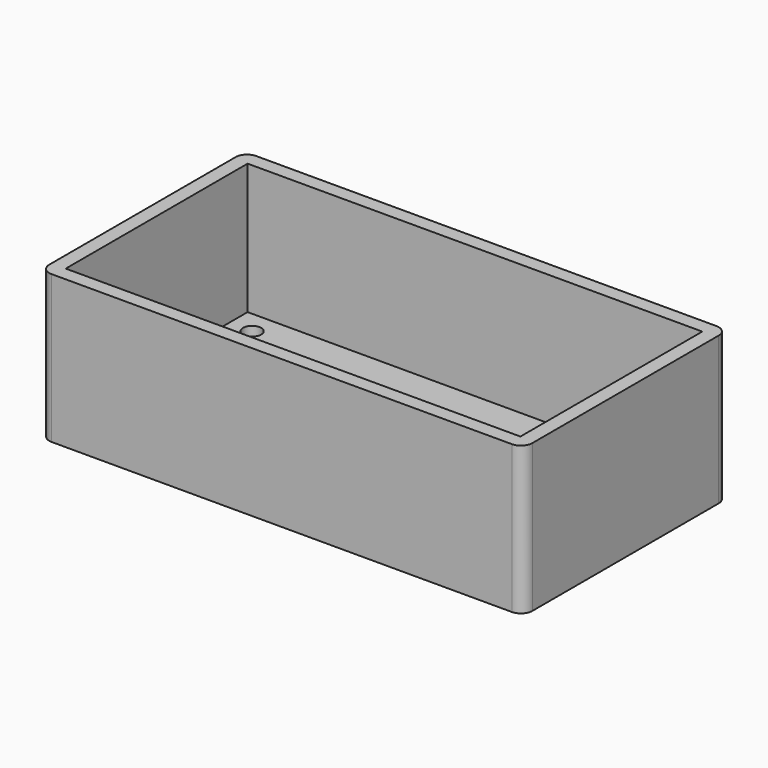
from build123d import *

# Parameters (mm, degrees)
F0_W     = 85
F0_H     = 45
F0_W_2   = 80
F0_H_2   = 40
F1_DEPTH = 3
F2_DEPTH = 26
F3_R     = 2
F4_R     = 5.75
F5_DEPTH = 3
F6_R     = 1.6
F7_DEPTH = 25


with BuildPart() as f1:
    # F0 (on Top) → F1 (new body)
    with BuildSketch(Plane.XY):
        Rectangle(F0_W, F0_H)
        Rectangle(F0_W_2, F0_H_2, mode=Mode.SUBTRACT)
        Rectangle(F0_W_2, F0_H_2)
    extrude(amount=F1_DEPTH)

    # F0 (on Top) → F2 (join)
    with BuildSketch(Plane.XY):
        Rectangle(F0_W, F0_H)
        Rectangle(F0_W_2, F0_H_2, mode=Mode.SUBTRACT)
    extrude(amount=F2_DEPTH)

    # F3
    f3_edges = [f1.edges().sort_by_distance(p)[0] for p in [
        (-42.5, -22.5, 13),
        (42.5, -22.5, 13),
        (-42.5, 22.5, 13),
        (42.5, 22.5, 13),
    ]]
    fillet(f3_edges, radius=F3_R)

    # F4 (on face) → F5 (cut, through all)
    with BuildSketch(Plane.XY.offset(3)):
        with Locations((32.25, 0)):
            Circle(F4_R)
    extrude(amount=-F5_DEPTH, mode=Mode.SUBTRACT)

    # F6 (on face) → F7 (cut)
    with BuildSketch(Plane(origin=(0, 0, 0), x_dir=(1, 0, 0), z_dir=(0, 0, -1))):
        with Locations((-35.962, -15.942)):
            Circle(F6_R)
        with Locations((-35.962, 15.942)):
            Circle(F6_R)
        with Locations((35.962, 15.942)):
            Circle(F6_R)
        with Locations((35.962, -15.942)):
            Circle(F6_R)
    extrude(amount=-F7_DEPTH, mode=Mode.SUBTRACT)


solid = f1.part
